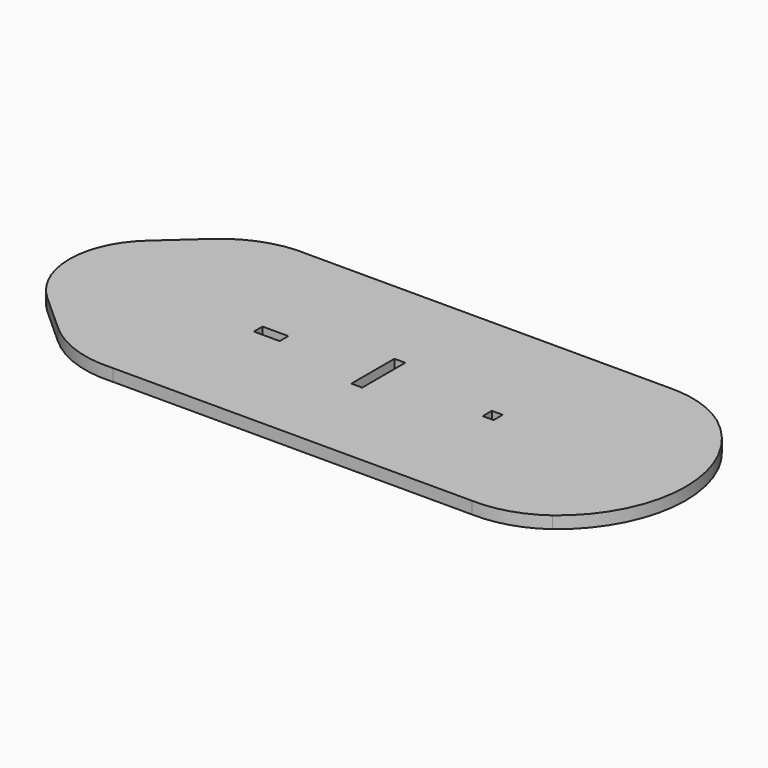
from build123d import *

# Parameters (mm, degrees)
F0_W     = 10
F0_H     = 4.2
F0_W_2   = 4.2
F0_H_2   = 20.833438
F0_H_3   = 4.41329
F1_DEPTH = 4.7


with BuildPart() as f1:
    # F0 (on Top) → F1 (new body)
    with BuildSketch(Plane.XY):
        with BuildLine():
            Line((78.121078, -144.22512), (-60.925064, -144.22512))
            ThreePointArc((-60.925064, -144.22512), (-76.89389, -146.416032), (-90.693977, -154.744361))
            Line((-90.693977, -154.744361), (-105.090827, -167.714982))
            ThreePointArc((-105.090827, -167.714982), (-115.776615, -191.725119), (-105.090827, -215.735257))
            Line((-105.090827, -215.735257), (-90.693977, -228.705877))
            ThreePointArc((-90.693977, -228.705877), (-76.89389, -237.034207), (-60.925064, -239.225119))
            Line((-60.925064, -239.225119), (78.121078, -239.225119))
            ThreePointArc((78.121078, -239.225119), (91.241589, -237.469621), (103.073645, -231.533963))
            ThreePointArc((103.073645, -231.533963), (122.820448, -191.725119), (103.073645, -151.916276))
            ThreePointArc((103.073645, -151.916276), (91.241589, -145.980618), (78.121078, -144.22512))
        make_face()
        with Locations((-37.599309, -191.831764)):
            Rectangle(F0_W, F0_H, mode=Mode.SUBTRACT)
        with Locations((3.80295, -191.725119)):
            Rectangle(F0_W_2, F0_H_2, mode=Mode.SUBTRACT)
        with Locations((48.105208, -191.725119)):
            Rectangle(F0_W_2, F0_H_3, mode=Mode.SUBTRACT)
    extrude(amount=F1_DEPTH)


solid = f1.part
